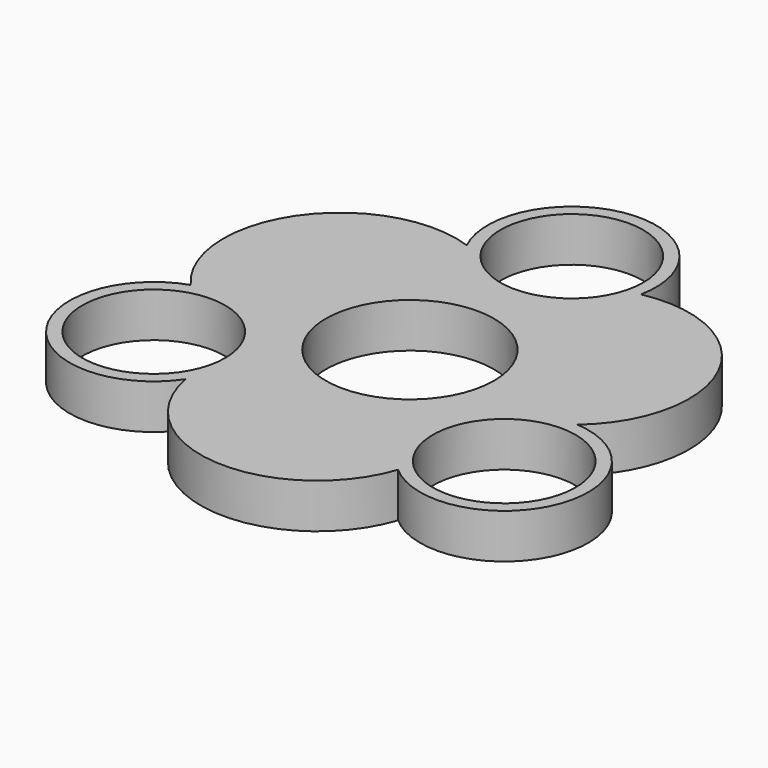
from build123d import *

# Parameters (mm, degrees)
F0_R     = 11.2
F0_R_2   = 13.2
F1_DEPTH = 7


with BuildPart() as f1:
    # F0 (on Top) → F1 (new body)
    with BuildSketch(Plane.XY):
        with BuildLine():
            ThreePointArc((28.454761, -2.710813), (33.020272, 19.217914), (12.93904, 29.14047))
            ThreePointArc((12.93904, 29.14047), (-1.658125, 44.847664), (-11.879747, 25.997953))
            ThreePointArc((-11.879747, 25.997953), (-33.153338, 18.987437), (-31.705907, -3.364698))
            ThreePointArc((-31.705907, -3.364698), (-38.010154, -23.859811), (-16.575014, -23.287139))
            ThreePointArc((-16.575014, -23.287139), (0.133066, -38.205351), (18.766867, -25.775772))
            ThreePointArc((18.766867, -25.775772), (39.668279, -20.987853), (28.454761, -2.710813))
        make_face()
        with Locations((-27.49823, -15.876111)):
            Circle(F0_R, mode=Mode.SUBTRACT)
        Circle(F0_R_2, mode=Mode.SUBTRACT)
        with Locations((27.49823, -15.876111)):
            Circle(F0_R, mode=Mode.SUBTRACT)
        with Locations((0, 31.752221)):
            Circle(F0_R, mode=Mode.SUBTRACT)
    extrude(amount=F1_DEPTH)


solid = f1.part
